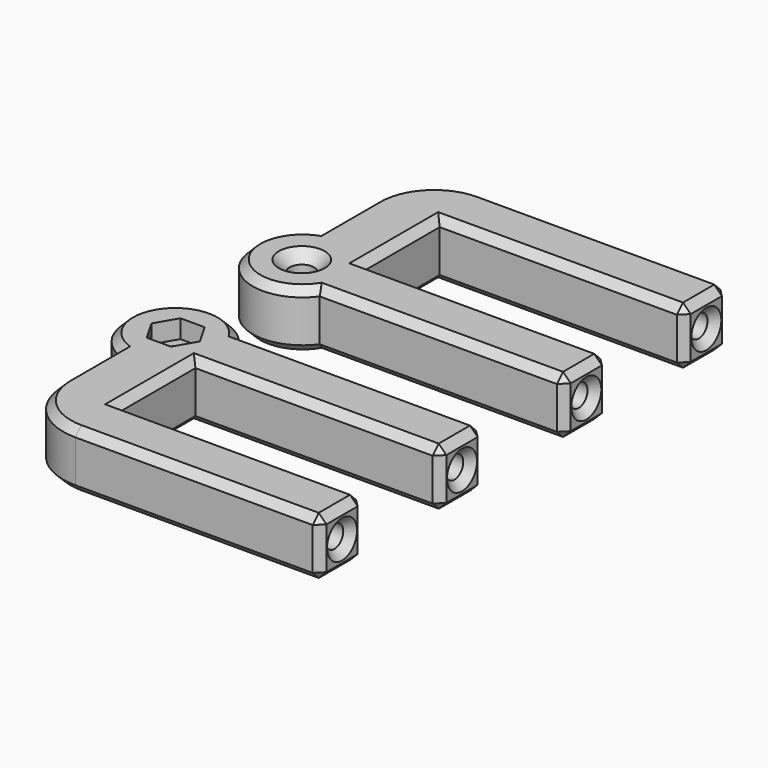
from build123d import *

# Parameters (mm, degrees)
F0_R     = 1.6
F1_DEPTH = 7.5
F2_R     = 1.45
F3_DEPTH = 25
F4_SIZE  = 1
F6_ANGLE = 180
F7_R     = 1.6
F8_DEPTH = 2.4
F9_SIZE  = 1.4


with BuildPart() as f1:
    # F0 (on Top) → F1 (new body)
    with BuildSketch(Plane.XY):
        with BuildLine():
            Line((-32, 0), (0, 0))
            Line((0, 0), (0, 7.1))
            Line((0, 7.1), (-32, 7.1))
            Line((-32, 7.1), (-32, 19.6))
            Line((-32, 19.6), (0, 19.6))
            Line((0, 19.6), (0, 26.7))
            Line((0, 26.7), (-32, 26.7))
            ThreePointArc((-32, 26.7), (-42.2886559839, 27.0365203991), (-40, 17))
            Line((-40, 17), (-40, 8))
            ThreePointArc((-40, 8), (-37.6568542495, 2.3431457505), (-32, 0))
        make_face()
        with Locations((-37.3, 23)):
            Circle(F0_R, mode=Mode.SUBTRACT)
    extrude(amount=F1_DEPTH)

    # F2 (on face) → F3 (cut)
    with BuildSketch(Plane.YZ):
        with Locations((3.55, 3.75)):
            Circle(F2_R)
        with Locations((23.15, 3.75)):
            Circle(F2_R)
    extrude(amount=-F3_DEPTH, mode=Mode.SUBTRACT)

    # F4
    f4_edges = [f1.edges().sort_by_distance(p)[0] for p in [
        (-16, 0, 7.5),
        (-16, 0, 0),
        (-16, 7.1, 7.5),
        (-16, 7.1, 0),
        (-16, 26.7, 0),
        (-16, 26.7, 7.5),
        (-16, 19.6, 7.5),
        (-16, 19.6, 0),
        (-32, 13.35, 0),
        (-32, 13.35, 7.5),
        (-42.288656, 27.03652, 0),
        (-42.288656, 27.03652, 7.5),
        (0, 26.7, 3.75),
        (0, 23.15, 0),
        (0, 19.6, 3.75),
        (0, 23.15, 7.5),
        (0, 3.55, 7.5),
        (0, 7.1, 3.75),
        (0, 3.55, 0),
        (0, 0, 3.75),
        (0, 2.1, 3.75),
        (0, 21.7, 3.75),
    ]]
    chamfer(f4_edges, length=F4_SIZE)


with BuildPart() as f5_1:
    # F5: copy of F1
    add(f1.part.moved(Location((0, 59.5, 0))))


with BuildPart() as f5_1_1:
    # F6: moved
    add(f5_1.part.rotate(Axis((0, 63.05, 3.75), (1, 0, 0)), F6_ANGLE))

    # F9
    f9_edges = [f5_1_1.edges().sort_by_distance(p)[0] for p in [
        (-38.9, 43.6, 7.5),
    ]]
    chamfer(f9_edges, length=F9_SIZE)


with BuildPart() as f1_1:
    add(f1.part)

    # F7 (on face) → F8 (cut)
    with BuildSketch(Plane.XY.offset(7.5)):
        Polygon((-35.7122867597, 25.75), (-38.8877132403, 25.75), (-40.4754264805, 23), (-38.8877132403, 20.25), (-35.7122867597, 20.25), (-34.1245735195, 23), align=None)
        with Locations((-37.3, 23)):
            Circle(F7_R, mode=Mode.SUBTRACT)
    extrude(amount=-F8_DEPTH, mode=Mode.SUBTRACT)


solid = Compound([f5_1_1.part, f1_1.part])
